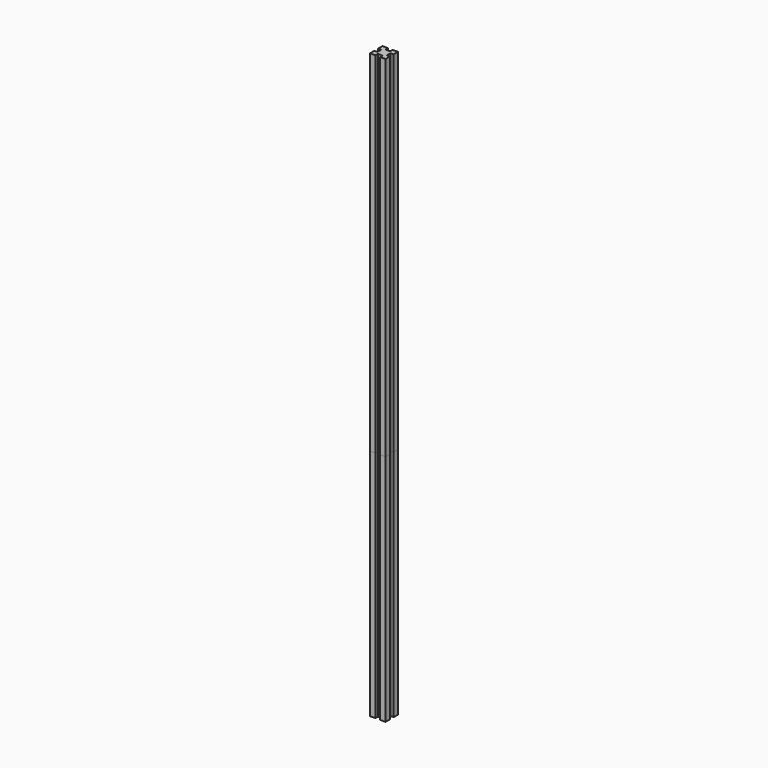
from build123d import *

# Parameters (mm, degrees)
F1_DEPTH = 750
F2_DEPTH = 300


with BuildPart() as f1:
    # F0 (on Top) → F1 (new body)
    with BuildSketch(Plane.XY):
        Polygon((3, -10), (10, -10), (10, -3), (6, -3), (6, 3), (10, 3), (10, 10), (3, 10), (3, 6), (-3, 6), (-3, 10), (-10, 10), (-10, 3), (-6, 3), (-6, -3), (-10, -3), (-10, -10), (-3, -10), (-3, -6), (3, -6), align=None)
    extrude(amount=F1_DEPTH)


with BuildPart() as f2:
    # F0 (on Top) → F2 (new body)
    with BuildSketch(Plane.XY):
        Polygon((3, -10), (10, -10), (10, -3), (6, -3), (6, 3), (10, 3), (10, 10), (3, 10), (3, 6), (-3, 6), (-3, 10), (-10, 10), (-10, 3), (-6, 3), (-6, -3), (-10, -3), (-10, -10), (-3, -10), (-3, -6), (3, -6), align=None)
    extrude(amount=F2_DEPTH)


solid = Compound([f1.part, f2.part])
